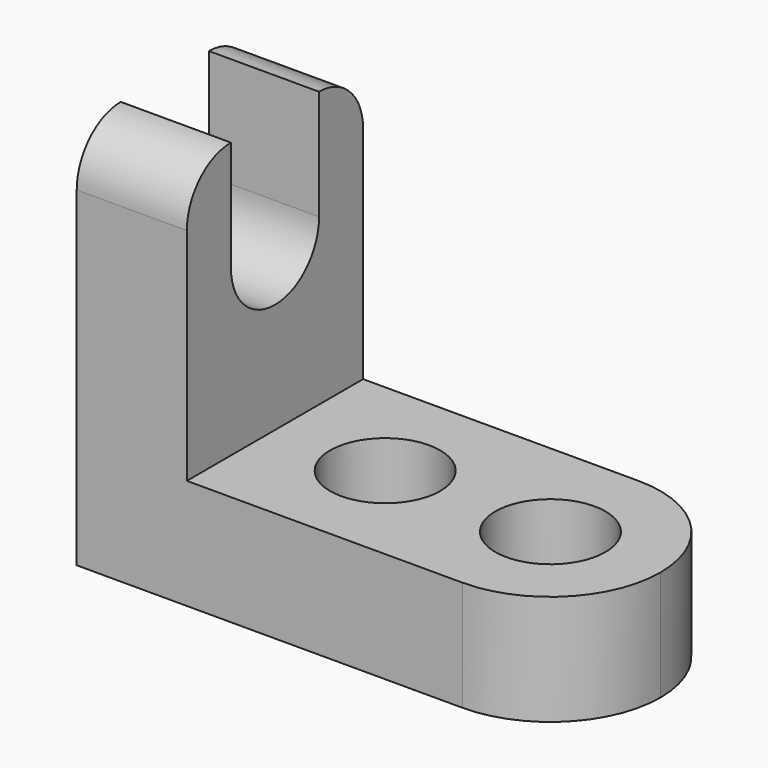
from build123d import *

# Parameters (mm, degrees)
F1_DEPTH = 25.4
F2_R     = 6.35
F3_DEPTH = 25.4
F5_DEPTH = 12.701
F7_DEPTH = 25.4
F9_DEPTH = 25.4


with BuildPart() as f1:
    # F0 (on Front) → F1 (new body)
    with BuildSketch(Plane.XZ):
        Polygon((-51.4965448515, 60.768796419), (-64.1965448515, 60.768796419), (-64.1965448515, 16.318796419), (-7.0465448515, 16.318796419), (-7.0465448515, 29.018796419), (-51.4965448515, 29.018796419), align=None)
    extrude(amount=F1_DEPTH)

    # F2 (on face) → F3 (cut)
    with BuildSketch(Plane.XY.offset(29.018796419)):
        with Locations((-38.7965448515, -12.7)):
            Circle(F2_R)
        with Locations((-19.7465448515, -12.7)):
            Circle(F2_R)
    extrude(amount=-F3_DEPTH, mode=Mode.SUBTRACT)

    # F4 (on face) → F5 (cut, through all)
    with BuildSketch(Plane.YZ.offset(-51.4965448515)):
        with BuildLine():
            ThreePointArc((-19.05, 48.068796419), (-12.7, 54.418796419), (-6.35, 48.068796419))
            Line((-6.35, 48.068796419), (-6.35, 60.768796419))
            Line((-6.35, 60.768796419), (-19.05, 60.768796419))
            Line((-19.05, 60.768796419), (-19.05, 48.068796419))
        make_face()
        with BuildLine():
            ThreePointArc((-19.05, 48.068796419), (-12.7, 41.718796419), (-6.35, 48.068796419))
            ThreePointArc((-6.35, 48.068796419), (-12.7, 54.418796419), (-19.05, 48.068796419))
        make_face()
    extrude(amount=-F5_DEPTH, mode=Mode.SUBTRACT)

    # F6 (on face) → F7 (cut)
    with BuildSketch(Plane.YZ.offset(-51.4965448515)):
        with BuildLine():
            ThreePointArc((-25.4, 54.418796419), (-23.5401280605, 58.9089244796), (-19.05, 60.768796419))
            Line((-19.05, 60.768796419), (-25.4, 60.768796419))
            Line((-25.4, 60.768796419), (-25.4, 54.418796419))
        make_face()
        with BuildLine():
            Line((0, 60.768796419), (-6.35, 60.768796419))
            ThreePointArc((-6.35, 60.768796419), (-1.8598719395, 58.9089244796), (0, 54.418796419))
            Line((0, 54.418796419), (0, 60.768796419))
        make_face()
    extrude(amount=-F7_DEPTH, mode=Mode.SUBTRACT)

    # F8 (on face) → F9 (cut)
    with BuildSketch(Plane.XY.offset(29.018796419)):
        with BuildLine():
            ThreePointArc((-19.7465448515, 0), (-10.7662887305, -3.7197438789), (-7.0465448515, -12.7))
            Line((-7.0465448515, -12.7), (-7.0465448515, 0))
            Line((-7.0465448515, 0), (-19.7465448515, 0))
        make_face()
        with BuildLine():
            Line((-7.0465448515, -25.4), (-7.0465448515, -12.7))
            ThreePointArc((-7.0465448515, -12.7), (-10.7662887305, -21.6802561211), (-19.7465448515, -25.4))
            Line((-19.7465448515, -25.4), (-7.0465448515, -25.4))
        make_face()
    extrude(amount=-F9_DEPTH, mode=Mode.SUBTRACT)


solid = f1.part
